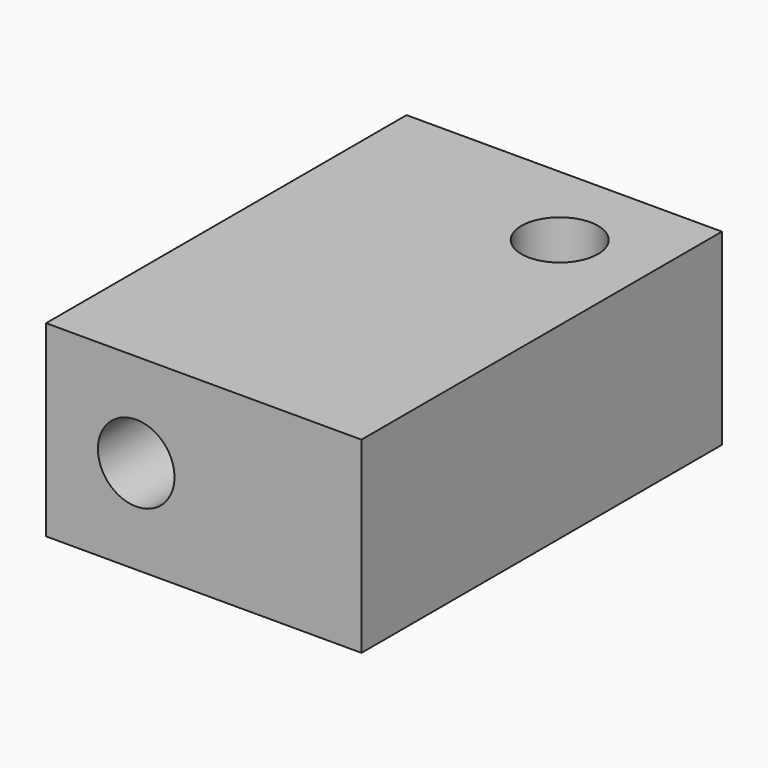
from build123d import *

# Parameters (mm, degrees)
F0_W     = 42
F0_H     = 60
F0_R     = 5.1
F1_DEPTH = 25
F2_R     = 8.75
F2_R_2   = 5.1
F3_DEPTH = 35
F4_DEPTH = 60


with BuildPart() as f1:
    # F0 (on Top) → F1 (new body)
    with BuildSketch(Plane.XY):
        with Locations((-21, -12.544838)):
            Rectangle(F0_W, F0_H)
        with Locations((-12, 5.455162)):
            Circle(F0_R, mode=Mode.SUBTRACT)
    extrude(amount=F1_DEPTH)

    # F2 (on face) → F3 (cut)
    with BuildSketch(Plane(origin=(0, 17.455162, 0), x_dir=(-1, 0, 0), z_dir=(0, 1, 0))):
        with Locations((30, 12.5)):
            Circle(F2_R)
        with Locations((30, 12.5)):
            Circle(F2_R_2, mode=Mode.SUBTRACT)
    extrude(amount=-F3_DEPTH, mode=Mode.SUBTRACT)

    # F2 (on face) → F4 (cut)
    with BuildSketch(Plane(origin=(0, 17.455162, 0), x_dir=(-1, 0, 0), z_dir=(0, 1, 0))):
        with Locations((30, 12.5)):
            Circle(F2_R_2)
    extrude(amount=-F4_DEPTH, mode=Mode.SUBTRACT)


solid = f1.part
